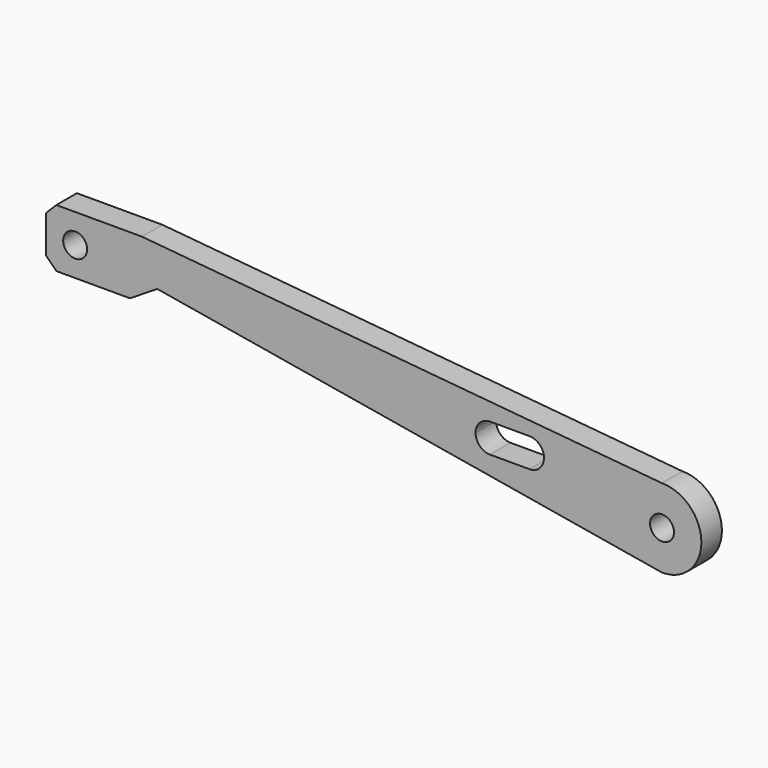
from build123d import *

# Parameters (mm, degrees)
F0_R     = 7
F1_DEPTH = 15


with BuildPart() as f1:
    # F0 (on Front) → F1 (new body)
    with BuildSketch(Plane.XZ):
        with BuildLine():
            Line((285.148505, 27.021557), (-18.851495, 55.021557))
            Line((-18.851495, 55.021557), (-68.851495, 55.021557))
            Line((-68.851495, 55.021557), (-74.851495, 49.021557))
            Line((-74.851495, 49.021557), (-74.851495, 27.021557))
            Line((-74.851495, 27.021557), (-68.851495, 21.021557))
            Line((-68.851495, 21.021557), (-25.851495, 21.021557))
            Line((-25.851495, 21.021557), (-9.851495, 31.021557))
            Line((-9.851495, 31.021557), (285.148505, -18.978443))
            ThreePointArc((285.148505, -18.978443), (308.148505, 4.021557), (285.148505, 27.021557))
        make_face()
        with BuildLine():
            ThreePointArc((176.148505, 17.521557), (178.638097, 23.531965), (184.648505, 26.021557))
            Line((184.648505, 26.021557), (207.648505, 26.021557))
            ThreePointArc((207.648505, 26.021557), (213.658912, 23.531965), (216.148505, 17.521557))
            ThreePointArc((216.148505, 17.521557), (213.658912, 11.51115), (207.648505, 9.021557))
            Line((207.648505, 9.021557), (184.648505, 9.021557))
            ThreePointArc((184.648505, 9.021557), (178.638097, 11.51115), (176.148505, 17.521557))
        make_face(mode=Mode.SUBTRACT)
        with Locations((285.148505, 4.021557)):
            Circle(F0_R, mode=Mode.SUBTRACT)
        with Locations((-57.851495, 38.021557)):
            Circle(F0_R, mode=Mode.SUBTRACT)
    extrude(amount=F1_DEPTH)


solid = f1.part
